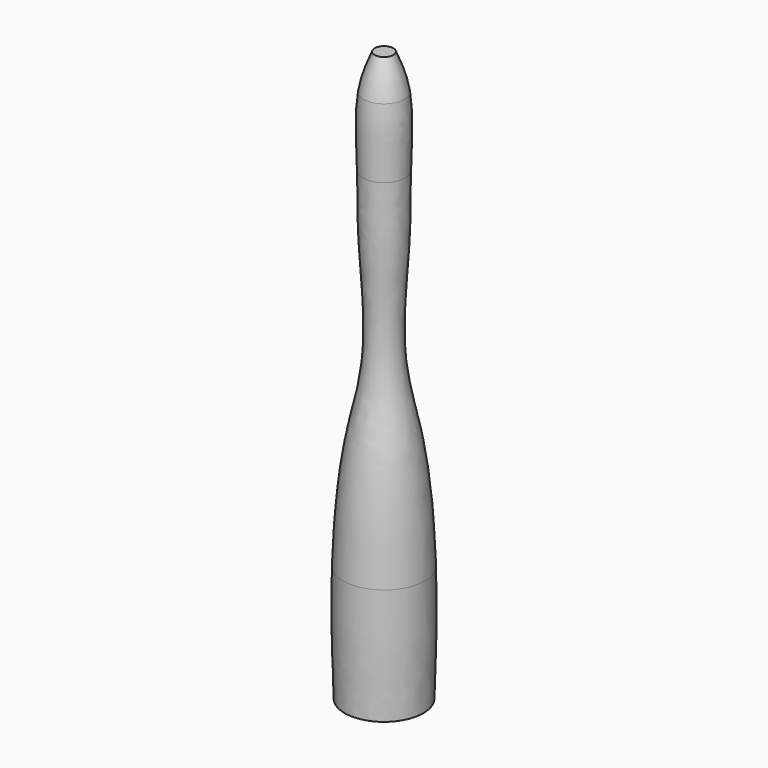
from build123d import *


with BuildPart() as f1:
    # F0 (on Front) → F1 (revolve)
    with BuildSketch(Plane.XZ):
        with BuildLine():
            Line((2.1, 67.8930776252), (0, 67.8930776252))
            Line((0, 67.8930776252), (0, 59.8930776252))
            Line((0, 59.8930776252), (4.6, 59.8930776252))
            add(Edge.make_bspline(
                [(2.1, 67.8930776252), (3.1124351011, 65.4831465707), (4.1248702022, 63.0732155163), (4.6, 59.8930776252)],
                knots=[0, 0, 0, 0, 0.0975932292, 0.0975932292, 0.0975932292, 0.0975932292], degree=3))
        make_face()
        with BuildLine():
            Line((4.6, 59.8930776252), (0, 59.8930776252))
            Line((0, 59.8930776252), (0, 44.2930776252))
            Line((0, 44.2930776252), (4.7826436906, 44.2930776252))
            add(Edge.make_bspline(
                [(4.6, 59.8930776252), (5.2308448174, 55.6707082502), (4.8968602277, 49.7796001298), (4.7878666087, 44.5666573381), (4.7826436906, 44.2930776252)],
                knots=[0.0975932292, 0.0975932292, 0.0975932292, 0.0975932292, 0.2271708374, 0.2343917785, 0.2343917785, 0.2343917785, 0.2343917785], degree=3))
        make_face()
        with BuildLine():
            Line((4.7826436906, 44.2930776252), (0, 44.2930776252))
            Line((0, 44.2930776252), (0, 30.1930776252))
            Line((0, 30.1930776252), (4.5, 30.1930776252))
            add(Edge.make_bspline(
                [(4.7826436906, 44.2930776252), (4.6936580809, 39.631955877), (4.7586162959, 35.43138884), (4.5, 30.1930776252)],
                knots=[0.2343917785, 0.2343917785, 0.2343917785, 0.2343917785, 0.3574187573, 0.3574187573, 0.3574187573, 0.3574187573], degree=3))
        make_face()
        with BuildLine():
            Line((4.5, 30.1930776252), (0, 30.1930776252))
            Line((0, 30.1930776252), (0, 7.9930776252))
            Line((0, 7.9930776252), (3.8, 7.9930776252))
            add(Edge.make_bspline(
                [(4.5, 30.1930776252), (4.1660372599, 23.4286130709), (3.2924911446, 14.933636726), (3.8, 7.9930776252)],
                knots=[0.3574187573, 0.3574187573, 0.3574187573, 0.3574187573, 0.5162889739, 0.5162889739, 0.5162889739, 0.5162889739], degree=3))
        make_face()
        with BuildLine():
            Line((3.8, 7.9930776252), (0, 7.9930776252))
            Line((0, 7.9930776252), (0, -9.2069223748))
            Line((0, -9.2069223748), (6.9, -9.2069223748))
            add(Edge.make_bspline(
                [(3.8, 7.9930776252), (4.2501883741, 1.8364185173), (5.7870832537, -3.0971210428), (6.9, -9.2069223748)],
                knots=[0.5162889739, 0.5162889739, 0.5162889739, 0.5162889739, 0.6572156271, 0.6572156271, 0.6572156271, 0.6572156271], degree=3))
        make_face()
        with BuildLine():
            Line((6.9, -9.2069223748), (0, -9.2069223748))
            Line((0, -9.2069223748), (0, -34.4069223748))
            Line((0, -34.4069223748), (9.2, -34.4069223748))
            add(Edge.make_bspline(
                [(6.9, -9.2069223748), (8.2391480935, -16.5587111161), (8.9644277297, -25.6135829708), (9.2, -34.4069223748)],
                knots=[0.6572156271, 0.6572156271, 0.6572156271, 0.6572156271, 0.8267895505, 0.8267895505, 0.8267895505, 0.8267895505], degree=3))
        make_face()
        with BuildLine():
            Line((9.2, -34.4069223748), (0, -34.4069223748))
            Line((0, -34.4069223748), (0, -60.8069223748))
            Line((0, -60.8069223748), (8.9, -60.8069223748))
            add(Edge.make_bspline(
                [(9.2, -34.4069223748), (9.4406241363, -43.3888356384), (9.1703120682, -52.0978790066), (8.9, -60.8069223748)],
                knots=[0.8267895505, 0.8267895505, 0.8267895505, 0.8267895505, 1, 1, 1, 1], degree=3))
        make_face()
    revolve(axis=Axis((0, 0, 3.5430776252), (0, 0, -1)))


solid = f1.part
